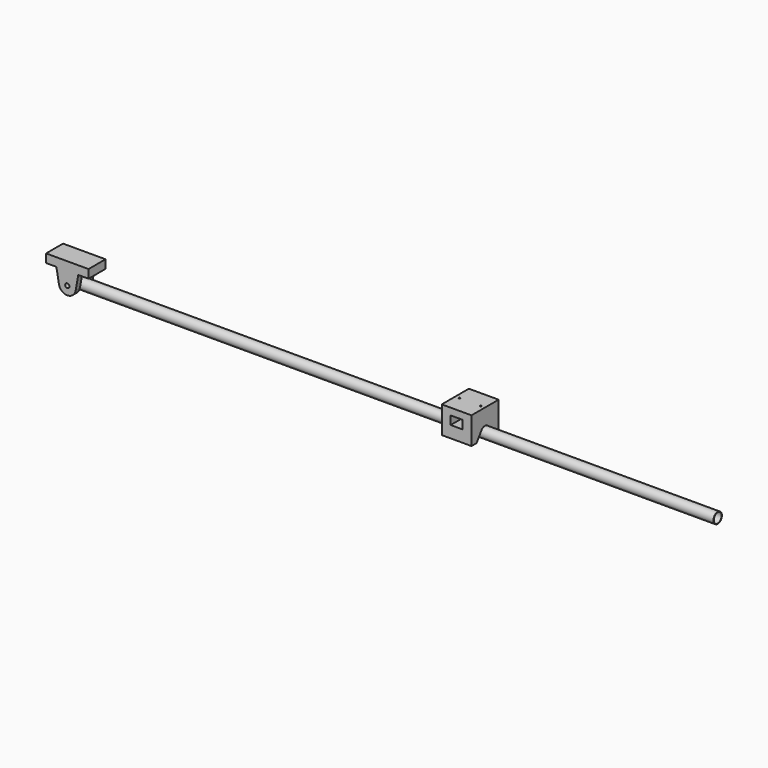
from build123d import *

# Parameters (mm, degrees)
F0_R           = 5
F1_DEPTH       = 25
F2_DEPTH       = 12.5
F3_R           = 12.5
F3_R_2         = 11.484
F4_DEPTH       = 25
F4_DEPTH_BACK  = 1512
F5_DEPTH       = 31.3
F8_DEPTH       = 35
F10_R          = 5
F10_R_2        = 1.75
F11_DEPTH      = 61
F12_DEPTH      = 15.001
F13_W          = 28
F13_H          = 20
F14_DEPTH      = 20
F14_DEPTH_BACK = 39.9535567697


with BuildPart() as f1:
    # F0 (on Front) → F1 (new body, symmetric)
    with BuildSketch(Plane.XZ):
        Polygon((50, 0), (-50, 0), (-50, -20), (-25.728808637, -20), (25.728808637, -20), (50, -20), align=None)
        with BuildLine():
            Line((25.728808637, -20), (-25.728808637, -20))
            Line((-25.728808637, -20), (-19.6961550602, -54.2128785537))
            ThreePointArc((-19.6961550602, -54.2128785537), (0, -70.7399150003), (19.6961550602, -54.2128785537))
            Line((19.6961550602, -54.2128785537), (25.728808637, -20))
        make_face()
        with Locations((0, -50.7399150003)):
            Circle(F0_R, mode=Mode.SUBTRACT)
    extrude(amount=F1_DEPTH, both=True)

    # F0 (on Front) → F2 (cut, symmetric)
    with BuildSketch(Plane.XZ):
        with BuildLine():
            Line((25.728808637, -20), (-25.728808637, -20))
            Line((-25.728808637, -20), (-19.6961550602, -54.2128785537))
            ThreePointArc((-19.6961550602, -54.2128785537), (0, -70.7399150003), (19.6961550602, -54.2128785537))
            Line((19.6961550602, -54.2128785537), (25.728808637, -20))
        make_face()
        with Locations((0, -50.7399150003)):
            Circle(F0_R, mode=Mode.SUBTRACT)
    extrude(amount=F2_DEPTH, both=True, mode=Mode.SUBTRACT)

    # F3 (on Right) → F4 (join, two sides)
    with BuildSketch(Plane.YZ) as f4_sk:
        with Locations((0, -50.7399150003)):
            Circle(F3_R)
        with Locations((0, -50.7399150003)):
            Circle(F3_R_2, mode=Mode.SUBTRACT)
    extrude(amount=-F4_DEPTH)
    extrude(f4_sk.sketch, amount=F4_DEPTH_BACK)

    # F0 (on Front) → F5 (cut, symmetric)
    with BuildSketch(Plane.XZ):
        with Locations((0, -50.7399150003)):
            Circle(F0_R)
    extrude(amount=F5_DEPTH, both=True, mode=Mode.SUBTRACT)


with BuildPart() as f8:
    # F7 (on offset) → F8 (new body, symmetric)
    with BuildSketch(Plane.YZ.offset(929)):
        with BuildLine():
            ThreePointArc((-10.2592185517, -42.7556533119), (0, -37.7399150003), (10.2592185517, -42.7556533119))
            Line((10.2592185517, -42.7556533119), (24.9525567697, -63.7399150003))
            Line((24.9525567697, -63.7399150003), (39.9525567697, -63.7399150003))
            Line((39.9525567697, -63.7399150003), (39.9525567697, 0))
            Line((39.9525567697, 0), (-39.9525567697, 0))
            Line((-39.9525567697, 0), (-39.9525567697, -63.7399150003))
            Line((-39.9525567697, -63.7399150003), (-24.9525567697, -63.7399150003))
            Line((-24.9525567697, -63.7399150003), (-10.2592185517, -42.7556533119))
        make_face()
    extrude(amount=F8_DEPTH, both=True)

    # F10 (on offset) → F11 (cut)
    with BuildSketch(Plane.XY.offset(-15)):
        with Locations((903.75, 0)):
            Circle(F10_R)
        with Locations((903.75, 0)):
            Circle(F10_R_2, mode=Mode.SUBTRACT)
        with Locations((954.25, 0)):
            Circle(F10_R)
        with Locations((954.25, 0)):
            Circle(F10_R_2, mode=Mode.SUBTRACT)
        with Locations((903.75, 0)):
            Circle(F10_R_2)
        with Locations((954.25, 0)):
            Circle(F10_R_2)
    extrude(amount=-F11_DEPTH, mode=Mode.SUBTRACT)

    # F10 (on offset) → F12 (cut, through all)
    with BuildSketch(Plane.XY.offset(-15)):
        with Locations((903.75, 0)):
            Circle(F10_R_2)
        with Locations((954.25, 0)):
            Circle(F10_R_2)
    extrude(amount=F12_DEPTH, mode=Mode.SUBTRACT)

    # F13 (on Front) → F14 (cut, two sides)
    with BuildSketch(Plane.XZ) as f14_sk:
        with Locations((929, -26.0371023417)):
            Rectangle(F13_W, F13_H)
    extrude(amount=-F14_DEPTH, mode=Mode.SUBTRACT)
    extrude(f14_sk.sketch, amount=F14_DEPTH_BACK, mode=Mode.SUBTRACT)


solid = Compound([f1.part, f8.part])
